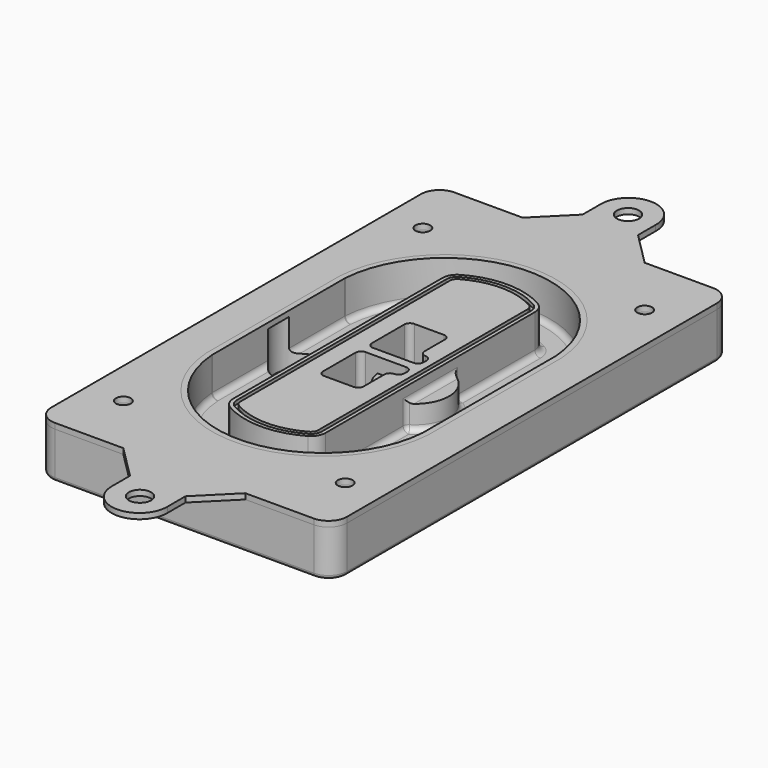
from build123d import *

# Parameters (mm, degrees)
F0_R      = 4
F1_DEPTH  = 25
F2_DEPTH  = 3
F3_DEPTH  = 18
F5_DEPTH  = 21
F6_DEPTH  = 2
F8_DEPTH  = 20
F9_DEPTH  = 16
F10_DEPTH = 25
F7_R      = 6
F7_R_2    = 4
F11_DEPTH = 6
F13_DEPTH = 9
F14_R     = 3
F15_R     = 2
F16_R     = 6
F16_R_2   = 4
F17_DEPTH = 3


with BuildPart() as f1:
    # F0 (on Top) → F1 (new body)
    with BuildSketch(Plane.XY):
        with BuildLine():
            ThreePointArc((-80, -125), (-77.0710678119, -132.0710678119), (-70, -135))
            Line((-70, -135), (70, -135))
            ThreePointArc((70, -135), (77.0710678119, -132.0710678119), (80, -125))
            Line((80, -125), (80, 125))
            ThreePointArc((80, 125), (77.0710678119, 132.0710678119), (70, 135))
            Line((70, 135), (-70, 135))
            ThreePointArc((-70, 135), (-77.0710678119, 132.0710678119), (-80, 125))
            Line((-80, 125), (-80, -125))
        make_face()
        with Locations((-60, -101.25)):
            Circle(F0_R, mode=Mode.SUBTRACT)
        with Locations((60, -101.25)):
            Circle(F0_R, mode=Mode.SUBTRACT)
        with Locations((-60, 101.25)):
            Circle(F0_R, mode=Mode.SUBTRACT)
        with BuildLine():
            ThreePointArc((-64, 44.6627429245), (-63.991269098, 45.1571001106), (-63.9650872818, 45.650840699))
            ThreePointArc((-63.9650872818, 45.650840699), (0, 105.25), (63.9650872818, 45.650840699))
            ThreePointArc((63.9650872818, 45.650840699), (63.991269098, 45.1571001106), (64, 44.6627429245))
            Line((64, 44.6627429245), (64, -44.6627429245))
            ThreePointArc((64, -44.6627429245), (63.991269098, -45.1571001106), (63.9650872818, -45.650840699))
            ThreePointArc((63.9650872818, -45.650840699), (0, -105.25), (-63.9650872818, -45.650840699))
            ThreePointArc((-63.9650872818, -45.650840699), (-63.991269098, -45.1571001106), (-64, -44.6627429245))
            Line((-64, -44.6627429245), (-64, 44.6627429245))
        make_face(mode=Mode.SUBTRACT)
        with Locations((60, 101.25)):
            Circle(F0_R, mode=Mode.SUBTRACT)
        with BuildLine():
            ThreePointArc((63.9650872818, 45.650840699), (0, 105.25), (-63.9650872818, 45.650840699))
            ThreePointArc((-63.9650872818, 45.650840699), (-63.991269098, 45.1571001106), (-64, 44.6627429245))
            Line((-64, 44.6627429245), (-64, -44.6627429245))
            ThreePointArc((-64, -44.6627429245), (-63.991269098, -45.1571001106), (-63.9650872818, -45.650840699))
            ThreePointArc((-63.9650872818, -45.650840699), (0, -105.25), (63.9650872818, -45.650840699))
            ThreePointArc((63.9650872818, -45.650840699), (63.991269098, -45.1571001106), (64, -44.6627429245))
            Line((64, -44.6627429245), (64, 44.6627429245))
            ThreePointArc((64, 44.6627429245), (63.991269098, 45.1571001106), (63.9650872818, 45.650840699))
        make_face()
        with BuildLine():
            Line((-60, -44.6627429245), (-60, 44.6627429245))
            ThreePointArc((-60, 44.6627429245), (-59.9937636414, 45.0158552003), (-59.9750623441, 45.3685270491))
            ThreePointArc((-59.9750623441, 45.3685270491), (0, 101.25), (59.9750623441, 45.3685270491))
            ThreePointArc((59.9750623441, 45.3685270491), (59.9937636414, 45.0158552003), (60, 44.6627429245))
            Line((60, 44.6627429245), (60, -44.6627429245))
            ThreePointArc((60, -44.6627429245), (59.9937636414, -45.0158552003), (59.9750623441, -45.3685270491))
            ThreePointArc((59.9750623441, -45.3685270491), (0, -101.25), (-59.9750623441, -45.3685270491))
            ThreePointArc((-59.9750623441, -45.3685270491), (-59.9937636414, -45.0158552003), (-60, -44.6627429245))
        make_face(mode=Mode.SUBTRACT)
        with BuildLine():
            ThreePointArc((-59.9750623441, 45.3685270491), (-59.9937636414, 45.0158552003), (-60, 44.6627429245))
            Line((-60, 44.6627429245), (-60, -44.6627429245))
            ThreePointArc((-60, -44.6627429245), (-59.9937636414, -45.0158552003), (-59.9750623441, -45.3685270491))
            ThreePointArc((-59.9750623441, -45.3685270491), (0, -101.25), (59.9750623441, -45.3685270491))
            ThreePointArc((59.9750623441, -45.3685270491), (59.9937636414, -45.0158552003), (60, -44.6627429245))
            Line((60, -44.6627429245), (60, 44.6627429245))
            ThreePointArc((60, 44.6627429245), (59.9937636414, 45.0158552003), (59.9750623441, 45.3685270491))
            ThreePointArc((59.9750623441, 45.3685270491), (0, 101.25), (-59.9750623441, 45.3685270491))
        make_face()
        with BuildLine():
            ThreePointArc((56.9825436409, 45.1567918117), (56.995634549, 44.9099215176), (57, 44.6627429245))
            Line((57, 44.6627429245), (57, -44.6627429245))
            ThreePointArc((57, -44.6627429245), (56.995634549, -44.9099215176), (56.9825436409, -45.1567918117))
            ThreePointArc((56.9825436409, -45.1567918117), (0, -98.25), (-56.9825436409, -45.1567918117))
            ThreePointArc((-56.9825436409, -45.1567918117), (-56.995634549, -44.9099215176), (-57, -44.6627429245))
            Line((-57, -44.6627429245), (-57, 44.6627429245))
            ThreePointArc((-57, 44.6627429245), (-56.995634549, 44.9099215176), (-56.9825436409, 45.1567918117))
            ThreePointArc((-56.9825436409, 45.1567918117), (0, 98.25), (56.9825436409, 45.1567918117))
        make_face(mode=Mode.SUBTRACT)
        with BuildLine():
            Line((57, -44.6627429245), (57, 44.6627429245))
            ThreePointArc((57, 44.6627429245), (56.995634549, 44.9099215176), (56.9825436409, 45.1567918117))
            ThreePointArc((56.9825436409, 45.1567918117), (0, 98.25), (-56.9825436409, 45.1567918117))
            ThreePointArc((-56.9825436409, 45.1567918117), (-56.995634549, 44.9099215176), (-57, 44.6627429245))
            Line((-57, 44.6627429245), (-57, -44.6627429245))
            ThreePointArc((-57, -44.6627429245), (-56.995634549, -44.9099215176), (-56.9825436409, -45.1567918117))
            ThreePointArc((-56.9825436409, -45.1567918117), (0, -98.25), (56.9825436409, -45.1567918117))
            ThreePointArc((56.9825436409, -45.1567918117), (56.995634549, -44.9099215176), (57, -44.6627429245))
        make_face()
    extrude(amount=-F1_DEPTH)

    # F0 (on Top) → F2 (join)
    with BuildSketch(Plane.XY):
        with BuildLine():
            ThreePointArc((-59.9750623441, 45.3685270491), (-59.9937636414, 45.0158552003), (-60, 44.6627429245))
            Line((-60, 44.6627429245), (-60, -44.6627429245))
            ThreePointArc((-60, -44.6627429245), (-59.9937636414, -45.0158552003), (-59.9750623441, -45.3685270491))
            ThreePointArc((-59.9750623441, -45.3685270491), (0, -101.25), (59.9750623441, -45.3685270491))
            ThreePointArc((59.9750623441, -45.3685270491), (59.9937636414, -45.0158552003), (60, -44.6627429245))
            Line((60, -44.6627429245), (60, 44.6627429245))
            ThreePointArc((60, 44.6627429245), (59.9937636414, 45.0158552003), (59.9750623441, 45.3685270491))
            ThreePointArc((59.9750623441, 45.3685270491), (0, 101.25), (-59.9750623441, 45.3685270491))
        make_face()
        with BuildLine():
            ThreePointArc((56.9825436409, 45.1567918117), (56.995634549, 44.9099215176), (57, 44.6627429245))
            Line((57, 44.6627429245), (57, -44.6627429245))
            ThreePointArc((57, -44.6627429245), (56.995634549, -44.9099215176), (56.9825436409, -45.1567918117))
            ThreePointArc((56.9825436409, -45.1567918117), (0, -98.25), (-56.9825436409, -45.1567918117))
            ThreePointArc((-56.9825436409, -45.1567918117), (-56.995634549, -44.9099215176), (-57, -44.6627429245))
            Line((-57, -44.6627429245), (-57, 44.6627429245))
            ThreePointArc((-57, 44.6627429245), (-56.995634549, 44.9099215176), (-56.9825436409, 45.1567918117))
            ThreePointArc((-56.9825436409, 45.1567918117), (0, 98.25), (56.9825436409, 45.1567918117))
        make_face(mode=Mode.SUBTRACT)
    extrude(amount=F2_DEPTH)

    # F0 (on Top) → F3 (cut)
    with BuildSketch(Plane.XY):
        with BuildLine():
            Line((57, -44.6627429245), (57, 44.6627429245))
            ThreePointArc((57, 44.6627429245), (56.995634549, 44.9099215176), (56.9825436409, 45.1567918117))
            ThreePointArc((56.9825436409, 45.1567918117), (0, 98.25), (-56.9825436409, 45.1567918117))
            ThreePointArc((-56.9825436409, 45.1567918117), (-56.995634549, 44.9099215176), (-57, 44.6627429245))
            Line((-57, 44.6627429245), (-57, -44.6627429245))
            ThreePointArc((-57, -44.6627429245), (-56.995634549, -44.9099215176), (-56.9825436409, -45.1567918117))
            ThreePointArc((-56.9825436409, -45.1567918117), (0, -98.25), (56.9825436409, -45.1567918117))
            ThreePointArc((56.9825436409, -45.1567918117), (56.995634549, -44.9099215176), (57, -44.6627429245))
        make_face()
    extrude(amount=-F3_DEPTH, mode=Mode.SUBTRACT)

    # F4 (on face) → F5 (join, through all)
    with BuildSketch(Plane.XY.offset(3)):
        with BuildLine():
            ThreePointArc((-25, -70.7141132851), (-23.9239722661, -74.7214325959), (-20.9853479853, -77.6507552274))
            ThreePointArc((-20.9853479853, -77.6507552274), (0, -83.25), (20.9853479853, -77.6507552274))
            ThreePointArc((20.9853479853, -77.6507552274), (23.9239722661, -74.7214325959), (25, -70.7141132851))
            Line((25, -70.7141132851), (25, 70.7141132851))
            ThreePointArc((25, 70.7141132851), (23.9239722661, 74.7214325959), (20.9853479853, 77.6507552274))
            ThreePointArc((20.9853479853, 77.6507552274), (0, 83.25), (-20.9853479853, 77.6507552274))
            ThreePointArc((-20.9853479853, 77.6507552274), (-23.9239722661, 74.7214325959), (-25, 70.7141132851))
            Line((-25, 70.7141132851), (-25, -70.7141132851))
        make_face()
        with BuildLine():
            ThreePointArc((19.989010989, 75.9165947419), (22.1929791996, 73.7196027682), (23, 70.7141132851))
            Line((23, 70.7141132851), (23, -70.7141132851))
            ThreePointArc((23, -70.7141132851), (22.1929791996, -73.7196027682), (19.989010989, -75.9165947419))
            ThreePointArc((19.989010989, -75.9165947419), (0, -81.25), (-19.989010989, -75.9165947419))
            ThreePointArc((-19.989010989, -75.9165947419), (-22.1929791996, -73.7196027682), (-23, -70.7141132851))
            Line((-23, -70.7141132851), (-23, 70.7141132851))
            ThreePointArc((-23, 70.7141132851), (-22.1929791996, 73.7196027682), (-19.989010989, 75.9165947419))
            ThreePointArc((-19.989010989, 75.9165947419), (0, 81.25), (19.989010989, 75.9165947419))
        make_face(mode=Mode.SUBTRACT)
        with BuildLine():
            Line((23, -70.7141132851), (23, 70.7141132851))
            ThreePointArc((23, 70.7141132851), (22.1929791996, 73.7196027682), (19.989010989, 75.9165947419))
            ThreePointArc((19.989010989, 75.9165947419), (0, 81.25), (-19.989010989, 75.9165947419))
            ThreePointArc((-19.989010989, 75.9165947419), (-22.1929791996, 73.7196027682), (-23, 70.7141132851))
            Line((-23, 70.7141132851), (-23, -70.7141132851))
            ThreePointArc((-23, -70.7141132851), (-22.1929791996, -73.7196027682), (-19.989010989, -75.9165947419))
            ThreePointArc((-19.989010989, -75.9165947419), (0, -81.25), (19.989010989, -75.9165947419))
            ThreePointArc((19.989010989, -75.9165947419), (22.1929791996, -73.7196027682), (23, -70.7141132851))
        make_face()
        with BuildLine():
            ThreePointArc((18.9926739927, 74.1824342563), (20.461986133, 72.7177729405), (21, 70.7141132851))
            Line((21, 70.7141132851), (21, -70.7141132851))
            ThreePointArc((21, -70.7141132851), (20.461986133, -72.7177729405), (18.9926739927, -74.1824342563))
            ThreePointArc((18.9926739927, -74.1824342563), (0, -79.25), (-18.9926739927, -74.1824342563))
            ThreePointArc((-18.9926739927, -74.1824342563), (-20.461986133, -72.7177729405), (-21, -70.7141132851))
            Line((-21, -70.7141132851), (-21, 70.7141132851))
            ThreePointArc((-21, 70.7141132851), (-20.461986133, 72.7177729405), (-18.9926739927, 74.1824342563))
            ThreePointArc((-18.9926739927, 74.1824342563), (0, 79.25), (18.9926739927, 74.1824342563))
        make_face(mode=Mode.SUBTRACT)
        with BuildLine():
            Line((21, -70.7141132851), (21, 70.7141132851))
            ThreePointArc((21, 70.7141132851), (20.461986133, 72.7177729405), (18.9926739927, 74.1824342563))
            ThreePointArc((18.9926739927, 74.1824342563), (0, 79.25), (-18.9926739927, 74.1824342563))
            ThreePointArc((-18.9926739927, 74.1824342563), (-20.461986133, 72.7177729405), (-21, 70.7141132851))
            Line((-21, 70.7141132851), (-21, -70.7141132851))
            ThreePointArc((-21, -70.7141132851), (-20.461986133, -72.7177729405), (-18.9926739927, -74.1824342563))
            ThreePointArc((-18.9926739927, -74.1824342563), (0, -79.25), (18.9926739927, -74.1824342563))
            ThreePointArc((18.9926739927, -74.1824342563), (20.461986133, -72.7177729405), (21, -70.7141132851))
        make_face()
        with BuildLine():
            Line((-8, -2.5), (14, -2.5))
            ThreePointArc((14, -2.5), (16.1213203436, -3.3786796564), (17, -5.5))
            Line((17, -5.5), (17, -7.5))
            ThreePointArc((17, -7.5), (16.1213203436, -9.6213203436), (14, -10.5))
            ThreePointArc((14, -10.5), (11.8786796564, -11.3786796564), (11, -13.5))
            Line((11, -13.5), (11, -27.5))
            ThreePointArc((11, -27.5), (10.1213203436, -29.6213203436), (8, -30.5))
            Line((8, -30.5), (-8, -30.5))
            ThreePointArc((-8, -30.5), (-10.1213203436, -29.6213203436), (-11, -27.5))
            Line((-11, -27.5), (-11, -5.5))
            ThreePointArc((-11, -5.5), (-10.1213203436, -3.3786796564), (-8, -2.5))
        make_face(mode=Mode.SUBTRACT)
        with BuildLine():
            ThreePointArc((-8, 2.5), (-10.1213203436, 3.3786796564), (-11, 5.5))
            Line((-11, 5.5), (-11, 27.5))
            ThreePointArc((-11, 27.5), (-10.1213203436, 29.6213203436), (-8, 30.5))
            Line((-8, 30.5), (8, 30.5))
            ThreePointArc((8, 30.5), (10.1213203436, 29.6213203436), (11, 27.5))
            Line((11, 27.5), (11, 13.5))
            ThreePointArc((11, 13.5), (11.8786796564, 11.3786796564), (14, 10.5))
            ThreePointArc((14, 10.5), (16.1213203436, 9.6213203436), (17, 7.5))
            Line((17, 7.5), (17, 5.5))
            ThreePointArc((17, 5.5), (16.1213203436, 3.3786796564), (14, 2.5))
            Line((14, 2.5), (-8, 2.5))
        make_face(mode=Mode.SUBTRACT)
    extrude(amount=-F5_DEPTH)

    # F4 (on face) → F6 (cut)
    with BuildSketch(Plane.XY.offset(3)):
        with BuildLine():
            Line((23, -70.7141132851), (23, 70.7141132851))
            ThreePointArc((23, 70.7141132851), (22.1929791996, 73.7196027682), (19.989010989, 75.9165947419))
            ThreePointArc((19.989010989, 75.9165947419), (0, 81.25), (-19.989010989, 75.9165947419))
            ThreePointArc((-19.989010989, 75.9165947419), (-22.1929791996, 73.7196027682), (-23, 70.7141132851))
            Line((-23, 70.7141132851), (-23, -70.7141132851))
            ThreePointArc((-23, -70.7141132851), (-22.1929791996, -73.7196027682), (-19.989010989, -75.9165947419))
            ThreePointArc((-19.989010989, -75.9165947419), (0, -81.25), (19.989010989, -75.9165947419))
            ThreePointArc((19.989010989, -75.9165947419), (22.1929791996, -73.7196027682), (23, -70.7141132851))
        make_face()
        with BuildLine():
            ThreePointArc((18.9926739927, 74.1824342563), (20.461986133, 72.7177729405), (21, 70.7141132851))
            Line((21, 70.7141132851), (21, -70.7141132851))
            ThreePointArc((21, -70.7141132851), (20.461986133, -72.7177729405), (18.9926739927, -74.1824342563))
            ThreePointArc((18.9926739927, -74.1824342563), (0, -79.25), (-18.9926739927, -74.1824342563))
            ThreePointArc((-18.9926739927, -74.1824342563), (-20.461986133, -72.7177729405), (-21, -70.7141132851))
            Line((-21, -70.7141132851), (-21, 70.7141132851))
            ThreePointArc((-21, 70.7141132851), (-20.461986133, 72.7177729405), (-18.9926739927, 74.1824342563))
            ThreePointArc((-18.9926739927, 74.1824342563), (0, 79.25), (18.9926739927, 74.1824342563))
        make_face(mode=Mode.SUBTRACT)
    extrude(amount=-F6_DEPTH, mode=Mode.SUBTRACT)

    # F7 (on face) → F8 (join)
    with BuildSketch(Plane(origin=(0, 0, -25), x_dir=(1, 0, 0), z_dir=(0, 0, -1))):
        with BuildLine():
            ThreePointArc((3.28842436, 0), (16.7567035675, 13.4682792075), (30.224982775, 0))
            Line((30.224982775, 0), (35.224982775, 0))
            ThreePointArc((35.224982775, 0), (16.7567035675, 18.4682792075), (-1.71157564, 0))
            Line((-1.71157564, 0), (3.28842436, 0))
        make_face()
        with BuildLine():
            Line((3.28842436, 0), (30.224982775, 0))
            ThreePointArc((30.224982775, 0), (16.7567035675, 13.4682792075), (3.28842436, 0))
        make_face()
        with BuildLine():
            ThreePointArc((3.28842436, 0), (16.7567035675, -13.4682792075), (30.224982775, 0))
            Line((30.224982775, 0), (3.28842436, 0))
        make_face()
        with BuildLine():
            Line((35.224982775, 0), (30.224982775, 0))
            ThreePointArc((30.224982775, 0), (16.7567035675, -13.4682792075), (3.28842436, 0))
            Line((3.28842436, 0), (-1.71157564, 0))
            ThreePointArc((-1.71157564, 0), (16.7567035675, -18.4682792075), (35.224982775, 0))
        make_face()
    extrude(amount=-F8_DEPTH)

    # F7 (on face) → F9 (cut)
    with BuildSketch(Plane(origin=(0, 0, -25), x_dir=(1, 0, 0), z_dir=(0, 0, -1))):
        with BuildLine():
            Line((3.28842436, 0), (30.224982775, 0))
            ThreePointArc((30.224982775, 0), (16.7567035675, 13.4682792075), (3.28842436, 0))
        make_face()
        with BuildLine():
            ThreePointArc((3.28842436, 0), (16.7567035675, -13.4682792075), (30.224982775, 0))
            Line((30.224982775, 0), (3.28842436, 0))
        make_face()
    extrude(amount=-F9_DEPTH, mode=Mode.SUBTRACT)

    # F7 (on face) → F10 (cut)
    with BuildSketch(Plane(origin=(0, 0, -25), x_dir=(1, 0, 0), z_dir=(0, 0, -1))):
        with BuildLine():
            Line((-59.0318229325, 0), (-32.0952645175, 0))
            ThreePointArc((-32.0952645175, 0), (-45.563543725, 13.4682792075), (-59.0318229325, 0))
        make_face()
        with BuildLine():
            ThreePointArc((-59.0318229325, 0), (-45.563543725, -13.4682792075), (-32.0952645175, 0))
            Line((-32.0952645175, 0), (-59.0318229325, 0))
        make_face()
    extrude(amount=-F10_DEPTH, mode=Mode.SUBTRACT)

    # F7 (on face) → F11 (cut)
    with BuildSketch(Plane(origin=(0, 0, -25), x_dir=(1, 0, 0), z_dir=(0, 0, -1))):
        with Locations((60, -101.25)):
            Circle(F7_R)
        with Locations((60, -101.25)):
            Circle(F7_R_2, mode=Mode.SUBTRACT)
        with Locations((60, -101.25)):
            Circle(F7_R)
        with Locations((60, -101.25)):
            Circle(F7_R_2, mode=Mode.SUBTRACT)
        with Locations((-60, -101.25)):
            Circle(F7_R)
        with Locations((-60, -101.25)):
            Circle(F7_R_2, mode=Mode.SUBTRACT)
        with Locations((-60, -101.25)):
            Circle(F7_R)
        with Locations((-60, -101.25)):
            Circle(F7_R_2, mode=Mode.SUBTRACT)
        with Locations((-60, 101.25)):
            Circle(F7_R)
        with Locations((-60, 101.25)):
            Circle(F7_R_2, mode=Mode.SUBTRACT)
        with Locations((-60, 101.25)):
            Circle(F7_R)
        with Locations((-60, 101.25)):
            Circle(F7_R_2, mode=Mode.SUBTRACT)
        with Locations((60, 101.25)):
            Circle(F7_R)
        with Locations((60, 101.25)):
            Circle(F7_R_2, mode=Mode.SUBTRACT)
        with Locations((60, 101.25)):
            Circle(F7_R)
        with Locations((60, 101.25)):
            Circle(F7_R_2, mode=Mode.SUBTRACT)
    extrude(amount=-F11_DEPTH, mode=Mode.SUBTRACT)

    # F12 (on face) → F13 (cut, through all)
    with BuildSketch(Plane(origin=(0, 0, -9), x_dir=(1, 0, 0), z_dir=(0, 0, -1))):
        with BuildLine():
            Line((11, 13.5), (11, 17.5481537753))
            ThreePointArc((11, 17.5481537753), (2.5696536419, 11.8239143813), (-1.5415842455, 2.5))
            Line((-1.5415842455, 2.5), (3.5224848595, 2.5))
            ThreePointArc((3.5224848595, 2.5), (6.1857188154, 8.3455872281), (11.2536447004, 12.2927168648))
            ThreePointArc((11.2536447004, 12.2927168648), (11.0640958889, 12.8831798879), (11, 13.5))
        make_face()
        with BuildLine():
            ThreePointArc((11.2536447004, -12.2927168648), (6.1857188154, -8.3455872281), (3.5224848595, -2.5))
            Line((3.5224848595, -2.5), (-1.5415842455, -2.5))
            ThreePointArc((-1.5415842455, -2.5), (2.5696536419, -11.8239143813), (11, -17.5481537753))
            Line((11, -17.5481537753), (11, -13.5))
            ThreePointArc((11, -13.5), (11.0640958889, -12.8831798879), (11.2536447004, -12.2927168648))
        make_face()
        with BuildLine():
            ThreePointArc((11.2536447004, 12.2927168648), (6.1857188154, 8.3455872281), (3.5224848595, 2.5))
            Line((3.5224848595, 2.5), (14, 2.5))
            ThreePointArc((14, 2.5), (16.1213203436, 3.3786796564), (17, 5.5))
            Line((17, 5.5), (17, 7.5))
            ThreePointArc((17, 7.5), (16.1213203436, 9.6213203436), (14, 10.5))
            ThreePointArc((14, 10.5), (12.3601599782, 10.9878446101), (11.2536447004, 12.2927168648))
        make_face()
        with BuildLine():
            Line((14, -2.5), (3.5224848595, -2.5))
            ThreePointArc((3.5224848595, -2.5), (6.1857188154, -8.3455872281), (11.2536447004, -12.2927168648))
            ThreePointArc((11.2536447004, -12.2927168648), (12.3601599782, -10.9878446101), (14, -10.5))
            ThreePointArc((14, -10.5), (16.1213203436, -9.6213203436), (17, -7.5))
            Line((17, -7.5), (17, -5.5))
            ThreePointArc((17, -5.5), (16.1213203436, -3.3786796564), (14, -2.5))
        make_face()
    extrude(amount=F13_DEPTH, mode=Mode.SUBTRACT)

    # F14
    f14_edges = [f1.edges().sort_by_distance(p)[0] for p in [
        (-57, -25.888126, -18),
        (-57, 25.888126, -18),
        (25, 0, -5),
        (25, 16.526506, -11.5),
        (25, -16.526506, -11.5),
        (25, -43.62031, -18),
        (35.224983, 0, -18),
    ]]
    fillet(f14_edges, radius=F14_R)

    # F15
    f15_edges = [f1.edges().sort_by_distance(p)[0] for p in [
        (0, -135, -25),
    ]]
    fillet(f15_edges, radius=F15_R)


with BuildPart() as f17:
    # F16 (on face) → F17 (new body, through all)
    with BuildSketch(Plane.XY):
        with BuildLine():
            Line((14.9950013125, 153), (14.9950013125, 165))
            ThreePointArc((14.9950013125, 165), (0, 180.387215235), (-14.9950013125, 165))
            Line((-14.9950013125, 165), (-14.9950013125, 153))
            Line((-14.9950013125, 153), (-32.9950013125, 135))
            Line((-32.9950013125, 135), (32.9950013125, 135))
            Line((32.9950013125, 135), (14.9950013125, 153))
        make_face()
        with Locations((0, 165)):
            Circle(F16_R, mode=Mode.SUBTRACT)
        with BuildLine():
            Line((14.9950013125, -153), (32.9950013125, -135))
            Line((32.9950013125, -135), (-32.9950013125, -135))
            Line((-32.9950013125, -135), (-14.9950013125, -153))
            Line((-14.9950013125, -153), (-14.9950013125, -165))
            ThreePointArc((-14.9950013125, -165), (0, -180.387215235), (14.9950013125, -165))
            Line((14.9950013125, -165), (14.9950013125, -153))
        make_face()
        with Locations((0, -165)):
            Circle(F16_R, mode=Mode.SUBTRACT)
        with BuildLine():
            Line((70, 135), (32.9950013125, 135))
            Line((32.9950013125, 135), (-32.9950013125, 135))
            Line((-32.9950013125, 135), (-70, 135))
            ThreePointArc((-70, 135), (-77.0710678119, 132.0710678119), (-80, 125))
            Line((-80, 125), (-80, -125))
            ThreePointArc((-80, -125), (-77.0710678119, -132.0710678119), (-70, -135))
            Line((-70, -135), (-32.9950013125, -135))
            Line((-32.9950013125, -135), (32.9950013125, -135))
            Line((32.9950013125, -135), (70, -135))
            ThreePointArc((70, -135), (77.0710678119, -132.0710678119), (80, -125))
            Line((80, -125), (80, 125))
            ThreePointArc((80, 125), (77.0710678119, 132.0710678119), (70, 135))
        make_face()
        with Locations((-60, -101.25)):
            Circle(F16_R_2, mode=Mode.SUBTRACT)
        with Locations((60, -101.25)):
            Circle(F16_R_2, mode=Mode.SUBTRACT)
        with Locations((-60, 101.25)):
            Circle(F16_R_2, mode=Mode.SUBTRACT)
        with BuildLine():
            ThreePointArc((-60, 44.6627429245), (-59.9937636414, 45.0158552003), (-59.9750623441, 45.3685270491))
            ThreePointArc((-59.9750623441, 45.3685270491), (0, 101.25), (59.9750623441, 45.3685270491))
            ThreePointArc((59.9750623441, 45.3685270491), (59.9937636414, 45.0158552003), (60, 44.6627429245))
            Line((60, 44.6627429245), (60, -44.6627429245))
            ThreePointArc((60, -44.6627429245), (59.9937636414, -45.0158552003), (59.9750623441, -45.3685270491))
            ThreePointArc((59.9750623441, -45.3685270491), (0, -101.25), (-59.9750623441, -45.3685270491))
            ThreePointArc((-59.9750623441, -45.3685270491), (-59.9937636414, -45.0158552003), (-60, -44.6627429245))
            Line((-60, -44.6627429245), (-60, 44.6627429245))
        make_face(mode=Mode.SUBTRACT)
        with Locations((60, 101.25)):
            Circle(F16_R_2, mode=Mode.SUBTRACT)
    extrude(amount=F17_DEPTH)


solid = Compound([f1.part, f17.part])
